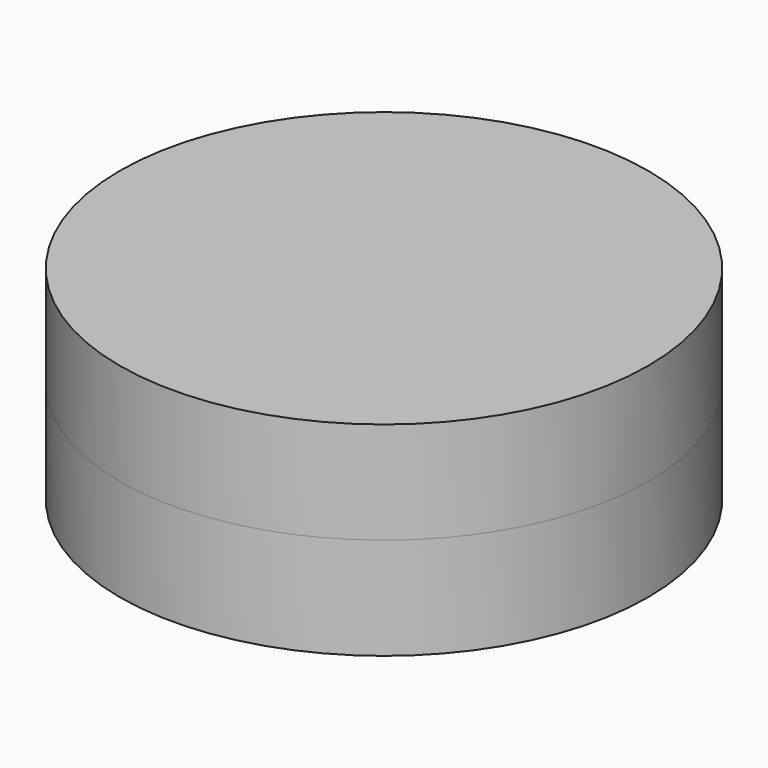
from build123d import *

# Parameters (mm, degrees)
F0_R      = 2.592568
F1_DEPTH  = 1
F1_FACE_R = 2.592568
F2_DEPTH  = 1


with BuildPart() as f1:
    # F0 (on Top) → F1 (new body)
    with BuildSketch(Plane.XY):
        Circle(F0_R)
    extrude(amount=F1_DEPTH)


with BuildPart() as f2:
    # F1_face (on face) → F2 (new body)
    with BuildSketch(Plane.XY.offset(1)):
        Circle(F1_FACE_R)
    extrude(amount=F2_DEPTH)


solid = Compound([f1.part, f2.part])
